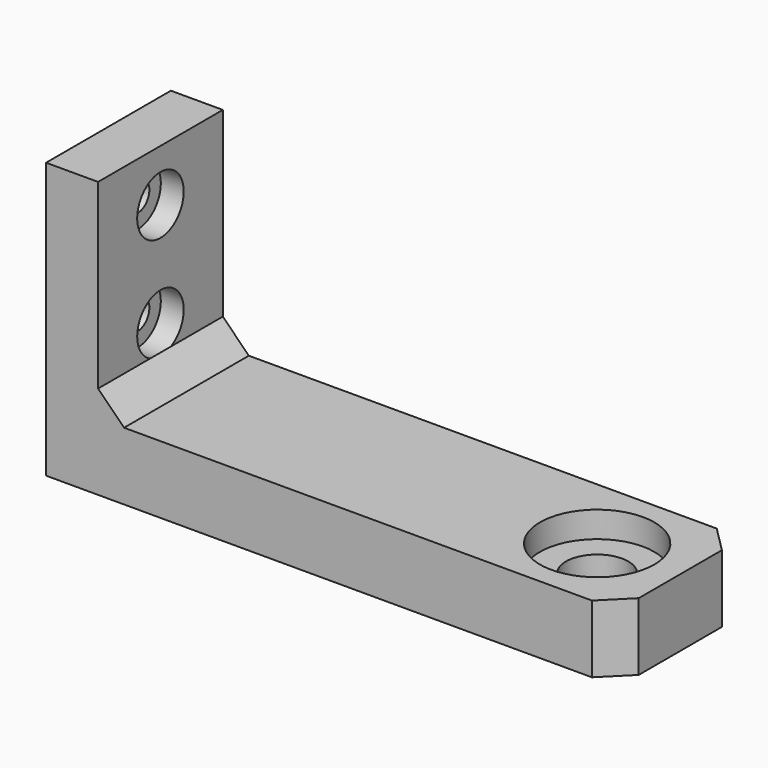
from build123d import *

# Parameters (mm, degrees)
F0_W     = 63.5
F0_H     = 19.05
F0_R     = 6.985
F0_W_2   = 6.35
F0_R_2   = 3.81
F1_DEPTH = 8.255
F2_DEPTH = 25.4
F3_DEPTH = 3.175
F4_R     = 1.8
F5_DEPTH = 6.35
F6_SIZE  = 3.175
F4_R_2   = 3.55
F7_DEPTH = 2.794


with BuildPart() as f1:
    # F0 (on Top) → F1 (new body)
    with BuildSketch(Plane.XY):
        with Locations((3.175, 0)):
            Rectangle(F0_W, F0_H)
        with Locations((24.765, 0)):
            Circle(F0_R, mode=Mode.SUBTRACT)
        with Locations((-31.75, 0)):
            Rectangle(F0_W_2, F0_H)
        with Locations((24.765, 0)):
            Circle(F0_R)
        with Locations((24.765, 0)):
            Circle(F0_R_2, mode=Mode.SUBTRACT)
    extrude(amount=-F1_DEPTH)

    # F0 (on Top) → F2 (join)
    with BuildSketch(Plane.XY):
        with Locations((-31.75, 0)):
            Rectangle(F0_W_2, F0_H)
    extrude(amount=F2_DEPTH)

    # F0 (on Top) → F3 (cut)
    with BuildSketch(Plane.XY):
        with Locations((24.765, 0)):
            Circle(F0_R)
        with Locations((24.765, 0)):
            Circle(F0_R_2, mode=Mode.SUBTRACT)
    extrude(amount=-F3_DEPTH, mode=Mode.SUBTRACT)

    # F4 (on face) → F5 (cut, through all)
    with BuildSketch(Plane.YZ.offset(-28.575)):
        with Locations((0, 6.35)):
            Circle(F4_R)
        with Locations((0, 19.05)):
            Circle(F4_R)
    extrude(amount=-F5_DEPTH, mode=Mode.SUBTRACT)

    # F6
    f6_edges = [f1.edges().sort_by_distance(p)[0] for p in [
        (-28.575, 0, 0),
        (34.925, 9.525, -4.1275),
        (34.925, -9.525, -4.1275),
    ]]
    chamfer(f6_edges, length=F6_SIZE)

    # F4 (on face) → F7 (cut)
    with BuildSketch(Plane.YZ.offset(-28.575)):
        with Locations((0, 6.35)):
            Circle(F4_R_2)
        with Locations((0, 6.35)):
            Circle(F4_R, mode=Mode.SUBTRACT)
        with Locations((0, 19.05)):
            Circle(F4_R_2)
        with Locations((0, 19.05)):
            Circle(F4_R, mode=Mode.SUBTRACT)
    extrude(amount=-F7_DEPTH, mode=Mode.SUBTRACT)


solid = f1.part
